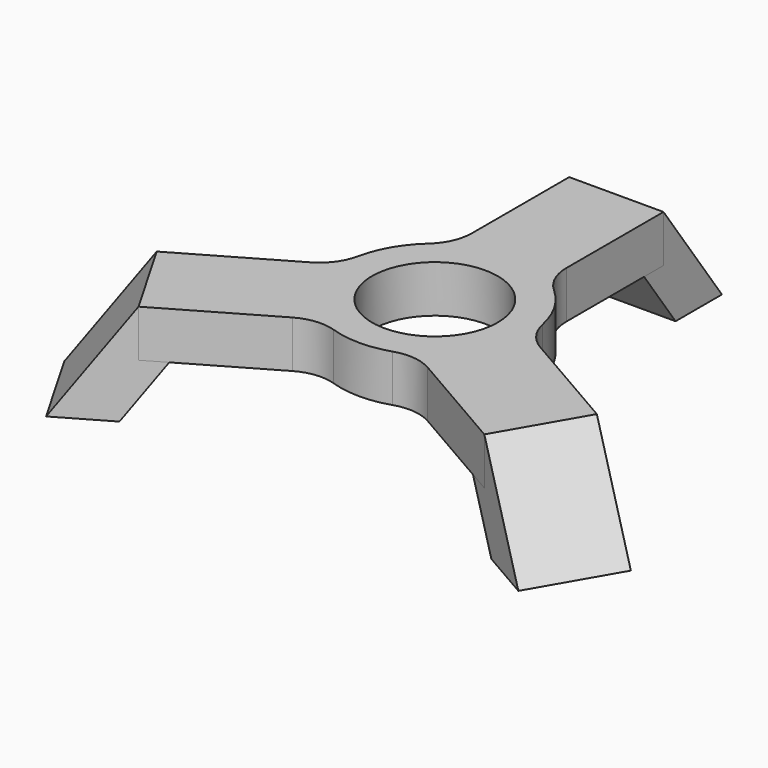
from build123d import *

# Parameters (mm, degrees)
F0_R     = 20
F1_DEPTH = 15
F2_R     = 15
F4_DEPTH = 30
F6_COUNT = 3


with BuildPart() as f1:
    # F0 (on Top) → F1 (new body)
    with BuildSketch(Plane.XY):
        with BuildLine():
            Line((-55, -49.0747728811), (-15, -25.9807621135))
            ThreePointArc((-15, -25.9807621135), (0, -30), (15, -25.9807621135))
            Line((15, -25.9807621135), (55, -49.0747728811))
            Line((55, -49.0747728811), (70, -23.0940107676))
            Line((70, -23.0940107676), (30, 0))
            ThreePointArc((30, 0), (25.9807621135, 15), (15, 25.9807621135))
            Line((15, 25.9807621135), (15, 72.1687836487))
            Line((15, 72.1687836487), (-15, 72.1687836487))
            Line((-15, 72.1687836487), (-15, 25.9807621135))
            ThreePointArc((-15, 25.9807621135), (-25.9807621135, 15), (-30, 0))
            Line((-30, 0), (-70, -23.0940107676))
            Line((-70, -23.0940107676), (-55, -49.0747728811))
        make_face()
        Circle(F0_R, mode=Mode.SUBTRACT)
    extrude(amount=-F1_DEPTH)

    # F2
    f2_edges = [f1.edges().sort_by_distance(p)[0] for p in [
        (-15, 25.980762, -7.5),
        (-30, 0, -7.5),
        (-15, -25.980762, -7.5),
        (15, -25.980762, -7.5),
        (15, 25.980762, -7.5),
        (30, 0, -7.5),
    ]]
    fillet(f2_edges, radius=F2_R)

    # F3 (on face) → F4 (join, through all)
    with BuildSketch(Plane(origin=(7.5, -12.9903810568, 0), x_dir=(0.8660254038, 0.5, 0), z_dir=(0.5, -0.8660254038, 0))):
        Polygon((-72.1687836487, -15), (-72.1687836487, 0), (-95.3969018771, -32.5646207343), (-76.9719982096, -32.5646207343), (-64.4432759996, -15), align=None)
    extrude(amount=-F4_DEPTH)

    # F6: F1 ×3 about axis
    f6_axis = Axis((0, 0, 0.5822554231), (0, 0, -1))


with BuildPart() as f1_1:
    add(f1.part)
    for i in range(1, F6_COUNT):
        add(f1.part.rotate(f6_axis, i * 360 / F6_COUNT))


solid = f1_1.part
